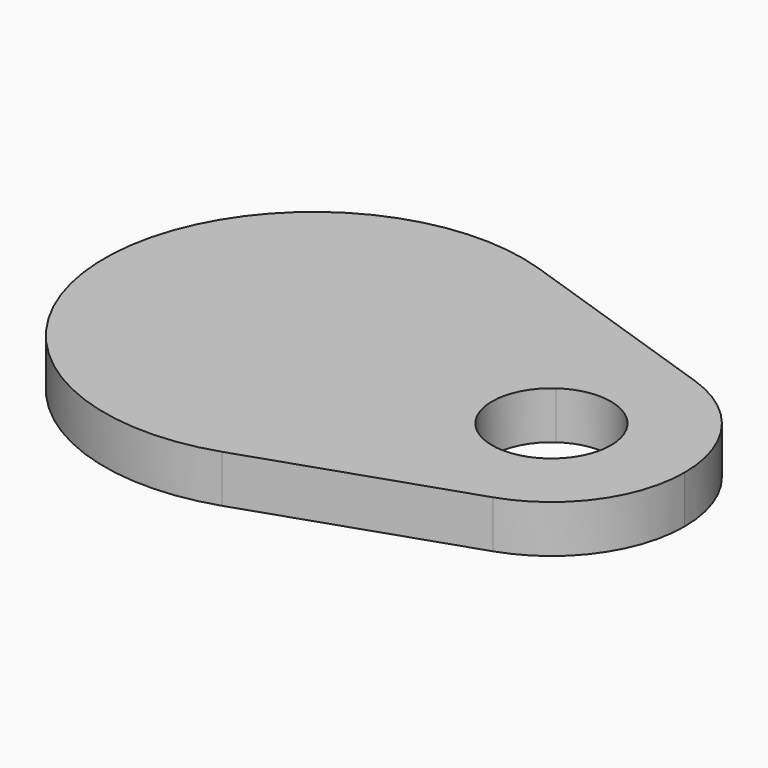
from build123d import *

# Parameters (mm, degrees)
F1_DEPTH = 5


with BuildPart() as f1:
    # F0 (on Top) → F1 (new body)
    with BuildSketch(Plane.XY):
        with BuildLine():
            ThreePointArc((-6.74, -12.2707945953), (-14, 0), (-6.74, 12.2707945953))
            ThreePointArc((-6.74, 12.2707945953), (-11.643579322, 17.4815910795), (-17.96, 20.8431859369))
            ThreePointArc((-17.96, 20.8431859369), (-47, 0), (-17.96, -20.8431859369))
            ThreePointArc((-17.96, -20.8431859369), (-11.643579322, -17.4815910795), (-6.74, -12.2707945953))
        make_face()
        with BuildLine():
            ThreePointArc((-6.74, 12.2707945953), (-1.234276133, 13.945485378), (4.48, 13.2638455962))
            Line((4.48, 13.2638455962), (-17.96, 20.8431859369))
            ThreePointArc((-17.96, 20.8431859369), (-11.643579322, 17.4815910795), (-6.74, 12.2707945953))
        make_face()
        with BuildLine():
            ThreePointArc((-3.60125, 5.108179562), (-4.8498169631, 8.8300692851), (-6.74, 12.2707945953))
            ThreePointArc((-6.74, 12.2707945953), (-14, 0), (-6.74, -12.2707945953))
            ThreePointArc((-6.74, -12.2707945953), (-4.8498169631, -8.8300692851), (-3.60125, -5.108179562))
            ThreePointArc((-3.60125, -5.108179562), (-6.25, 0), (-3.60125, 5.108179562))
        make_face()
        with BuildLine():
            ThreePointArc((4.48, -13.2638455962), (11.3736537665, -8.1633326528), (14, 0))
            ThreePointArc((14, 0), (11.3736537665, 8.1633326528), (4.48, 13.2638455962))
            ThreePointArc((4.48, 13.2638455962), (-1.234276133, 13.945485378), (-6.74, 12.2707945953))
            ThreePointArc((-6.74, 12.2707945953), (-4.8498169631, 8.8300692851), (-3.60125, 5.108179562))
            ThreePointArc((-3.60125, 5.108179562), (2.8770373216, 5.54843728), (6.25, 0))
            ThreePointArc((6.25, 0), (2.8770373216, -5.54843728), (-3.60125, -5.108179562))
            ThreePointArc((-3.60125, -5.108179562), (-4.8498169631, -8.8300692851), (-6.74, -12.2707945953))
            ThreePointArc((-6.74, -12.2707945953), (-1.234276133, -13.945485378), (4.48, -13.2638455962))
        make_face()
        with BuildLine():
            Line((-17.96, -20.8431859369), (4.48, -13.2638455962))
            ThreePointArc((4.48, -13.2638455962), (-1.234276133, -13.945485378), (-6.74, -12.2707945953))
            ThreePointArc((-6.74, -12.2707945953), (-11.643579322, -17.4815910795), (-17.96, -20.8431859369))
        make_face()
    extrude(amount=F1_DEPTH)


solid = f1.part
